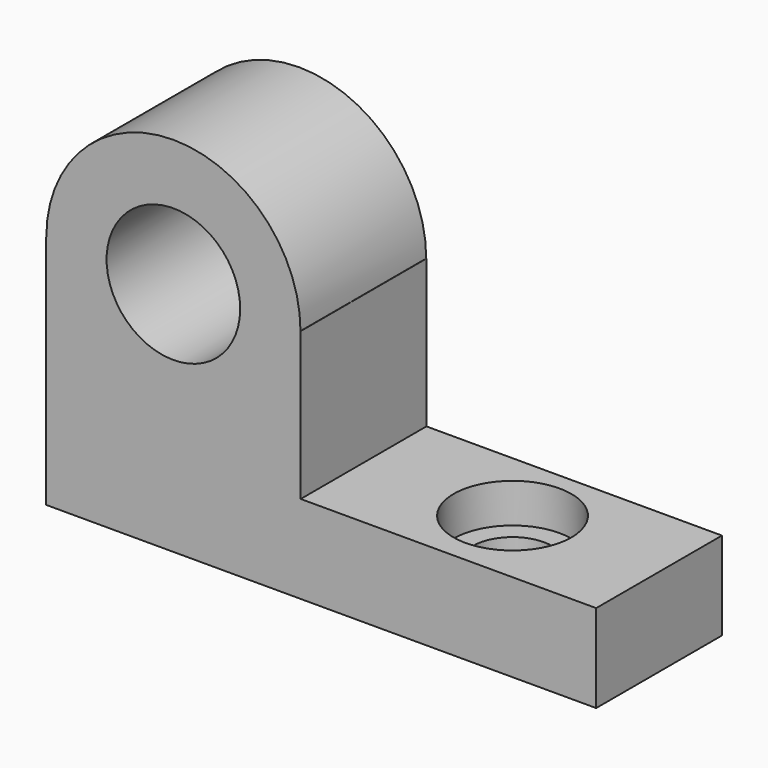
from build123d import *

# Parameters (mm, degrees)
F1_DEPTH       = 25.4
F2_DEPTH       = 25.4
F4_D           = 25.4
F4_CBORE_D     = 38.1
F4_CBORE_DEPTH = 12.7
F5_DEPTH       = 25.4
F6_DEPTH       = 25.4
F8_D           = 30.48
F8_CBORE_D     = 43.18
F8_CBORE_DEPTH = 43.18


with BuildPart() as f1:
    # F0 (on Front) → F1 (new body)
    with BuildSketch(Plane.XZ):
        with BuildLine():
            ThreePointArc((-6.0617997533, 50.4444008589), (-47.1386495735, 91.5212506791), (-88.2154993937, 50.4444008589))
            Line((-88.2154993937, 50.4444008589), (-68.9775327914, 50.4444008589))
            ThreePointArc((-68.9775327914, 50.4444008589), (-47.1386495735, 72.2832840767), (-25.2997663556, 50.4444008589))
            Line((-25.2997663556, 50.4444008589), (-6.0617997533, 50.4444008589))
        make_face()
        with BuildLine():
            Line((-68.9775327914, 50.4444008589), (-88.2154993937, 50.4444008589))
            ThreePointArc((-88.2154993937, 50.4444008589), (-47.1386495735, 9.3675510387), (-6.0617997533, 50.4444008589))
            Line((-6.0617997533, 50.4444008589), (-25.2997663556, 50.4444008589))
            ThreePointArc((-25.2997663556, 50.4444008589), (-47.1386495735, 28.605517641), (-68.9775327914, 50.4444008589))
        make_face()
        with BuildLine():
            Line((-88.2866495735, 50.4444008589), (-88.2866495735, -25.7555991411))
            Line((-88.2866495735, -25.7555991411), (89.5133504265, -25.7555991411))
            Line((89.5133504265, -25.7555991411), (89.5133504265, 2.6924008589))
            Line((89.5133504265, 2.6924008589), (-5.9906495735, 2.6924008589))
            Line((-5.9906495735, 2.6924008589), (-5.9906495735, 50.4444008589))
            Line((-5.9906495735, 50.4444008589), (-6.0617997533, 50.4444008589))
            ThreePointArc((-6.0617997533, 50.4444008589), (-47.1386495735, 9.3675510387), (-88.2154993937, 50.4444008589))
            Line((-88.2154993937, 50.4444008589), (-88.2866495735, 50.4444008589))
        make_face()
    extrude(amount=F1_DEPTH)

    # F2 (add): a face of the model
    f2_faces = [f1.faces().sort_by_distance(p)[0] for p in [
        (-23.3187363133, -25.4, 14.8327425436),
    ]]
    extrude(f2_faces, amount=F2_DEPTH)

    # F4 (through all)
    with Locations(Plane.XY.offset(2.6924008589)):
        with Locations((41.4565503597, -24.5364010334)):
            CounterBoreHole(F4_D / 2, F4_CBORE_D / 2, F4_CBORE_DEPTH)

    # F0 (on Front) → F5 (join)
    with BuildSketch(Plane.XZ):
        with BuildLine():
            Line((-47.1386495735, 50.4444008589), (-68.9775327914, 50.4444008589))
            ThreePointArc((-68.9775327914, 50.4444008589), (-47.1386495735, 28.605517641), (-25.2997663556, 50.4444008589))
            Line((-25.2997663556, 50.4444008589), (-47.1386495735, 50.4444008589))
        make_face()
        with BuildLine():
            ThreePointArc((-25.2997663556, 50.4444008589), (-47.1386495735, 72.2832840767), (-68.9775327914, 50.4444008589))
            Line((-68.9775327914, 50.4444008589), (-47.1386495735, 50.4444008589))
            Line((-47.1386495735, 50.4444008589), (-25.2997663556, 50.4444008589))
        make_face()
    extrude(amount=F5_DEPTH)

    # F6 (add): a face of the model
    f6_faces = [f1.faces().sort_by_distance(p)[0] for p in [
        (-47.1386495735, -25.4, 50.4444008589),
    ]]
    extrude(f6_faces, amount=F6_DEPTH)

    # F8 (through all)
    with Locations(Plane.XZ.offset(50.8)):
        with Locations((-47.1386495735, 50.4444008589)):
            CounterBoreHole(F8_D / 2, F8_CBORE_D / 2, F8_CBORE_DEPTH)


solid = f1.part
